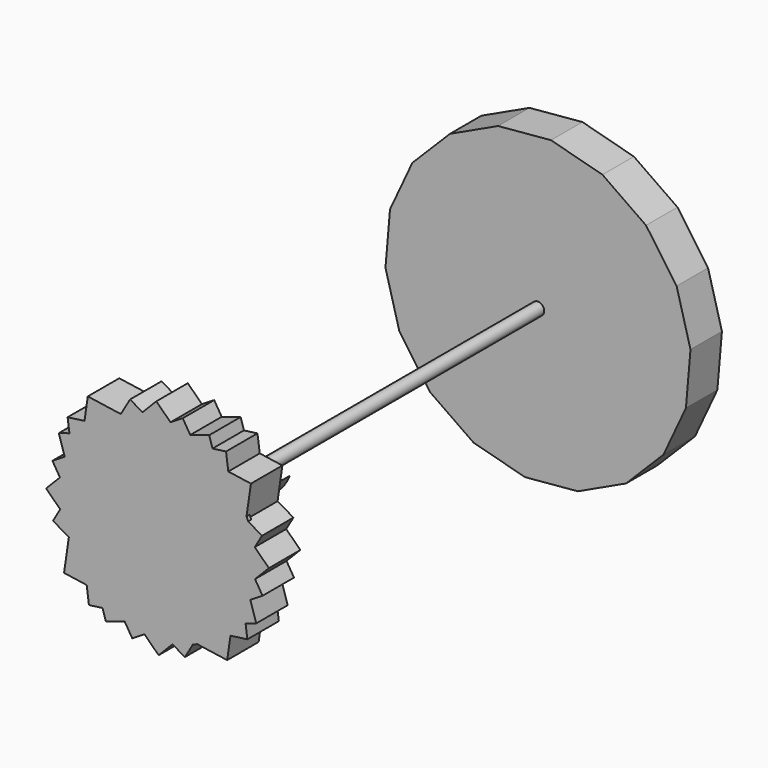
from build123d import *

# Parameters (mm, degrees)
F1_DEPTH  = 25.4
F2_R      = 62.2890098636
F3_DEPTH  = 2.54
F5_DEPTH  = 50.8
F6_R      = 4.0438859763
F7_DEPTH  = 254
F9_DEPTH  = 25.4
F11_DEPTH = 7.62
F13_DEPTH = 50.8


with BuildPart() as f1:
    # F0 (on Front) → F1 (new body)
    with BuildSketch(Plane.XZ):
        with BuildLine():
            ThreePointArc((57.7819383594, 0.1851565995), (57.7821608524, 0.0925784186), (57.7822350168, 0))
            ThreePointArc((57.7822350168, 0), (57.5231925226, -5.4652543892), (56.7483876576, -10.8815064119))
            Line((56.7483876576, -10.8815064119), (57.6832427998, -13.8688362132))
            Line((57.6832427998, -13.8688362132), (63.0399816594, -8.4016064989))
            Line((63.0399816594, -8.4016064989), (57.7819383594, 0.1851565995))
        make_face()
        with BuildLine():
            ThreePointArc((57.773677284, 0.9944328126), (57.7792247151, 0.5898091697), (57.7819383594, 0.1851565995))
            Line((57.7819383594, 0.1851565995), (63.0399816594, -8.4016064989))
            Line((63.0399816594, -8.4016064989), (71.991833844, 0.7348911993))
            Line((71.991833844, 0.7348911993), (62.8553361458, 9.6867433838))
            Line((62.8553361458, 9.6867433838), (57.773677284, 0.9944328126))
        make_face()
        with BuildLine():
            ThreePointArc((55.9340761988, 14.4970963756), (57.2533298713, 7.8001860353), (57.773677284, 0.9944328126))
            Line((57.773677284, 0.9944328126), (62.8553361458, 9.6867433838))
            Line((62.8553361458, 9.6867433838), (56.1851989417, 16.2220793817))
            Line((56.1851989417, 16.2220793817), (55.9340761988, 14.4970963756))
        make_face()
        Polygon((67.8905894931, -16.3229981602), (63.0399816594, -8.4016064989), (57.6832427998, -13.8688362132), (59.9691978318, -21.1736059939), align=None)
        with BuildLine():
            Line((57.6832427998, -13.8688362132), (55.4925720308, -16.1046928857))
            ThreePointArc((55.4925720308, -16.1046928857), (55.0846167775, -17.4491168261), (54.644095292, -18.7832247831))
            Line((54.644095292, -18.7832247831), (55.3472414238, -24.0038281214))
            Line((55.3472414238, -24.0038281214), (59.9691978318, -21.1736059939))
            Line((59.9691978318, -21.1736059939), (57.6832427998, -13.8688362132))
        make_face()
        Polygon((56.1851989417, 16.2220793817), (62.8553361458, 9.6867433838), (67.5432272255, 17.7055038512), (57.2750609654, 23.7084322604), align=None)
        Polygon((63.7893451423, -33.3808875197), (59.9691978318, -21.1736059939), (55.3472414238, -24.0038281214), (56.9005616546, -35.5366637798), align=None)
        with BuildLine():
            ThreePointArc((50.832156187, 27.4750537927), (53.2390137787, 22.4587198078), (55.152249759, 17.2341530125))
            Line((55.152249759, 17.2341530125), (56.1851989417, 16.2220793817))
            Line((56.1851989417, 16.2220793817), (57.2750609654, 23.7084322604))
            Line((57.2750609654, 23.7084322604), (50.832156187, 27.4750537927))
        make_face()
        with BuildLine():
            Line((55.3472414238, -24.0038281214), (51.3824347334, -26.431649294))
            ThreePointArc((51.3824347334, -26.431649294), (50.459573345, -28.1534747654), (49.4790348067, -29.8431197788))
            Line((49.4790348067, -29.8431197788), (48.2563590876, -38.2417809771))
            Line((48.2563590876, -38.2417809771), (56.9005616546, -35.5366637798))
            Line((56.9005616546, -35.5366637798), (55.3472414238, -24.0038281214))
        make_face()
        with BuildLine():
            ThreePointArc((47.7273210625, 32.5712988339), (49.3455729251, 30.0632851869), (50.832156187, 27.4750537927))
            Line((50.832156187, 27.4750537927), (57.2750609654, 23.7084322604))
            Line((57.2750609654, 23.7084322604), (60.3795672043, 45.0335438011))
            Line((60.3795672043, 45.0335438011), (45.7622092891, 47.1615363679))
            Line((45.7622092891, 47.1615363679), (47.7273210625, 32.5712988339))
        make_face()
        Polygon((58.0797452027, -44.2916711518), (56.9005616546, -35.5366637798), (48.2563590876, -38.2417809771), (47.1615363679, -45.7622092891), align=None)
        with BuildLine():
            ThreePointArc((40.4218450044, 41.2899640345), (44.2896449556, 37.1108344455), (47.7273210625, 32.5712988339))
            Line((47.7273210625, 32.5712988339), (45.7622092891, 47.1615363679))
            Line((45.7622092891, 47.1615363679), (38.2417809771, 48.2563590876))
            Line((38.2417809771, 48.2563590876), (40.4218450044, 41.2899640345))
        make_face()
        with BuildLine():
            Line((48.2563590876, -38.2417809771), (41.2899640345, -40.4218450044))
            ThreePointArc((41.2899640345, -40.4218450044), (37.1108344455, -44.2896449556), (32.5712988339, -47.7273210625))
            Line((32.5712988339, -47.7273210625), (47.1615363679, -45.7622092891))
            Line((47.1615363679, -45.7622092891), (48.2563590876, -38.2417809771))
        make_face()
        Polygon((38.2417809771, 48.2563590876), (45.7622092891, 47.1615363679), (44.2916711518, 58.0797452027), (35.5366637798, 56.9005616546), align=None)
        with BuildLine():
            Line((47.1615363679, -45.7622092891), (32.5712988339, -47.7273210625))
            ThreePointArc((32.5712988339, -47.7273210625), (30.0632851869, -49.3455729251), (27.4750537927, -50.832156187))
            Line((27.4750537927, -50.832156187), (23.7084322604, -57.2750609654))
            Line((23.7084322604, -57.2750609654), (45.0335438011, -60.3795672043))
            Line((45.0335438011, -60.3795672043), (47.1615363679, -45.7622092891))
        make_face()
        with BuildLine():
            ThreePointArc((26.431649294, 51.3824347334), (28.1534747654, 50.459573345), (29.8431197788, 49.4790348067))
            Line((29.8431197788, 49.4790348067), (38.2417809771, 48.2563590876))
            Line((38.2417809771, 48.2563590876), (35.5366637798, 56.9005616546))
            Line((35.5366637798, 56.9005616546), (24.0038281214, 55.3472414238))
            Line((24.0038281214, 55.3472414238), (26.431649294, 51.3824347334))
        make_face()
        with BuildLine():
            Line((23.7084322604, -57.2750609654), (27.4750537927, -50.832156187))
            ThreePointArc((27.4750537927, -50.832156187), (22.4587198078, -53.2390137787), (17.2341530125, -55.152249759))
            Line((17.2341530125, -55.152249759), (16.2220793817, -56.1851989417))
            Line((16.2220793817, -56.1851989417), (23.7084322604, -57.2750609654))
        make_face()
        Polygon((24.0038281214, 55.3472414238), (35.5366637798, 56.9005616546), (33.3808875197, 63.7893451423), (21.1736059939, 59.9691978318), align=None)
        with BuildLine():
            ThreePointArc((16.1046928857, 55.4925720308), (17.4491168261, 55.0846167775), (18.7832247831, 54.644095292))
            Line((18.7832247831, 54.644095292), (24.0038281214, 55.3472414238))
            Line((24.0038281214, 55.3472414238), (21.1736059939, 59.9691978318))
            Line((21.1736059939, 59.9691978318), (13.8688362132, 57.6832427998))
            Line((13.8688362132, 57.6832427998), (16.1046928857, 55.4925720308))
        make_face()
        Polygon((17.7055038512, -67.5432272255), (23.7084322604, -57.2750609654), (16.2220793817, -56.1851989417), (9.6867433838, -62.8553361458), align=None)
        with BuildLine():
            Line((16.2220793817, -56.1851989417), (14.4970963756, -55.9340761988))
            ThreePointArc((14.4970963756, -55.9340761988), (7.8001860353, -57.2533298713), (0.9944328126, -57.773677284))
            Line((0.9944328126, -57.773677284), (9.6867433838, -62.8553361458))
            Line((9.6867433838, -62.8553361458), (16.2220793817, -56.1851989417))
        make_face()
        with BuildLine():
            ThreePointArc((-0.1851565995, 57.7819383594), (5.3730839925, 57.531875095), (10.8815064119, 56.7483876576))
            Line((10.8815064119, 56.7483876576), (13.8688362132, 57.6832427998))
            Line((13.8688362132, 57.6832427998), (8.4016064989, 63.0399816594))
            Line((8.4016064989, 63.0399816594), (-0.1851565995, 57.7819383594))
        make_face()
        Polygon((13.8688362132, 57.6832427998), (21.1736059939, 59.9691978318), (16.3229981602, 67.8905894931), (8.4016064989, 63.0399816594), align=None)
        with BuildLine():
            Line((9.6867433838, -62.8553361458), (0.9944328126, -57.773677284))
            ThreePointArc((0.9944328126, -57.773677284), (0.5898091697, -57.7792247151), (0.1851565995, -57.7819383594))
            Line((0.1851565995, -57.7819383594), (-8.4016064989, -63.0399816594))
            Line((-8.4016064989, -63.0399816594), (0.7348911993, -71.991833844))
            Line((0.7348911993, -71.991833844), (9.6867433838, -62.8553361458))
        make_face()
        with BuildLine():
            Line((-8.4016064989, -63.0399816594), (0.1851565995, -57.7819383594))
            ThreePointArc((0.1851565995, -57.7819383594), (-5.3730839925, -57.531875095), (-10.8815064119, -56.7483876576))
            Line((-10.8815064119, -56.7483876576), (-13.8688362132, -57.6832427998))
            Line((-13.8688362132, -57.6832427998), (-8.4016064989, -63.0399816594))
        make_face()
        with BuildLine():
            Line((-9.6867433838, 62.8553361458), (-0.9944328126, 57.773677284))
            ThreePointArc((-0.9944328126, 57.773677284), (-0.5898091697, 57.7792247151), (-0.1851565995, 57.7819383594))
            Line((-0.1851565995, 57.7819383594), (8.4016064989, 63.0399816594))
            Line((8.4016064989, 63.0399816594), (-0.7348911993, 71.991833844))
            Line((-0.7348911993, 71.991833844), (-9.6867433838, 62.8553361458))
        make_face()
        with BuildLine():
            ThreePointArc((-14.4970963756, 55.9340761988), (-7.8001860353, 57.2533298713), (-0.9944328126, 57.773677284))
            Line((-0.9944328126, 57.773677284), (-9.6867433838, 62.8553361458))
            Line((-9.6867433838, 62.8553361458), (-16.2220793817, 56.1851989417))
            Line((-16.2220793817, 56.1851989417), (-14.4970963756, 55.9340761988))
        make_face()
        Polygon((-16.3229981602, -67.8905894931), (-8.4016064989, -63.0399816594), (-13.8688362132, -57.6832427998), (-21.1736059939, -59.9691978318), align=None)
        with BuildLine():
            Line((-13.8688362132, -57.6832427998), (-16.1046928857, -55.4925720308))
            ThreePointArc((-16.1046928857, -55.4925720308), (-17.4491168261, -55.0846167775), (-18.7832247831, -54.644095292))
            Line((-18.7832247831, -54.644095292), (-24.0038281214, -55.3472414238))
            Line((-24.0038281214, -55.3472414238), (-21.1736059939, -59.9691978318))
            Line((-21.1736059939, -59.9691978318), (-13.8688362132, -57.6832427998))
        make_face()
        Polygon((-16.2220793817, 56.1851989417), (-9.6867433838, 62.8553361458), (-17.7055038512, 67.5432272255), (-23.7084322604, 57.2750609654), align=None)
        with BuildLine():
            ThreePointArc((-27.4750537927, 50.832156187), (-22.4587198078, 53.2390137787), (-17.2341530125, 55.152249759))
            Line((-17.2341530125, 55.152249759), (-16.2220793817, 56.1851989417))
            Line((-16.2220793817, 56.1851989417), (-23.7084322604, 57.2750609654))
            Line((-23.7084322604, 57.2750609654), (-27.4750537927, 50.832156187))
        make_face()
        Polygon((-33.3808875197, -63.7893451423), (-21.1736059939, -59.9691978318), (-24.0038281214, -55.3472414238), (-35.5366637798, -56.9005616546), align=None)
        with BuildLine():
            Line((-38.2417809771, -48.2563590876), (-40.4218450044, -41.2899640345))
            ThreePointArc((-40.4218450044, -41.2899640345), (-44.2896449556, -37.1108344455), (-47.7273210625, -32.5712988339))
            Line((-47.7273210625, -32.5712988339), (-45.7622092891, -47.1615363679))
            Line((-45.7622092891, -47.1615363679), (-38.2417809771, -48.2563590876))
        make_face()
        with BuildLine():
            Line((-24.0038281214, -55.3472414238), (-26.431649294, -51.3824347334))
            ThreePointArc((-26.431649294, -51.3824347334), (-28.1534747654, -50.459573345), (-29.8431197788, -49.4790348067))
            Line((-29.8431197788, -49.4790348067), (-38.2417809771, -48.2563590876))
            Line((-38.2417809771, -48.2563590876), (-35.5366637798, -56.9005616546))
            Line((-35.5366637798, -56.9005616546), (-24.0038281214, -55.3472414238))
        make_face()
        with BuildLine():
            ThreePointArc((-32.5712988339, 47.7273210625), (-30.0632851869, 49.3455729251), (-27.4750537927, 50.832156187))
            Line((-27.4750537927, 50.832156187), (-23.7084322604, 57.2750609654))
            Line((-23.7084322604, 57.2750609654), (-45.0335438011, 60.3795672043))
            Line((-45.0335438011, 60.3795672043), (-47.1615363679, 45.7622092891))
            Line((-47.1615363679, 45.7622092891), (-32.5712988339, 47.7273210625))
        make_face()
        with BuildLine():
            Line((-48.2563590876, 38.2417809771), (-41.2899640345, 40.4218450044))
            ThreePointArc((-41.2899640345, 40.4218450044), (-37.1108344455, 44.2896449556), (-32.5712988339, 47.7273210625))
            Line((-32.5712988339, 47.7273210625), (-47.1615363679, 45.7622092891))
            Line((-47.1615363679, 45.7622092891), (-48.2563590876, 38.2417809771))
        make_face()
        with BuildLine():
            Line((-55.3472414238, 24.0038281214), (-51.3824347334, 26.431649294))
            ThreePointArc((-51.3824347334, 26.431649294), (-50.459573345, 28.1534747654), (-49.4790348067, 29.8431197788))
            Line((-49.4790348067, 29.8431197788), (-48.2563590876, 38.2417809771))
            Line((-48.2563590876, 38.2417809771), (-56.9005616546, 35.5366637798))
            Line((-56.9005616546, 35.5366637798), (-55.3472414238, 24.0038281214))
        make_face()
        with BuildLine():
            Line((-57.2750609654, -23.7084322604), (-50.832156187, -27.4750537927))
            ThreePointArc((-50.832156187, -27.4750537927), (-53.2390137787, -22.4587198078), (-55.152249759, -17.2341530125))
            Line((-55.152249759, -17.2341530125), (-56.1851989417, -16.2220793817))
            Line((-56.1851989417, -16.2220793817), (-57.2750609654, -23.7084322604))
        make_face()
        with BuildLine():
            ThreePointArc((-47.7273210625, -32.5712988339), (-49.3455729251, -30.0632851869), (-50.832156187, -27.4750537927))
            Line((-50.832156187, -27.4750537927), (-57.2750609654, -23.7084322604))
            Line((-57.2750609654, -23.7084322604), (-60.3795672043, -45.0335438011))
            Line((-60.3795672043, -45.0335438011), (-45.7622092891, -47.1615363679))
            Line((-45.7622092891, -47.1615363679), (-47.7273210625, -32.5712988339))
        make_face()
        Polygon((-35.5366637798, -56.9005616546), (-38.2417809771, -48.2563590876), (-45.7622092891, -47.1615363679), (-44.2916711518, -58.0797452027), align=None)
        Polygon((-56.9005616546, 35.5366637798), (-48.2563590876, 38.2417809771), (-47.1615363679, 45.7622092891), (-58.0797452027, 44.2916711518), align=None)
        with BuildLine():
            ThreePointArc((-55.4925720308, 16.1046928857), (-55.0846167775, 17.4491168261), (-54.644095292, 18.7832247831))
            Line((-54.644095292, 18.7832247831), (-55.3472414238, 24.0038281214))
            Line((-55.3472414238, 24.0038281214), (-59.9691978318, 21.1736059939))
            Line((-59.9691978318, 21.1736059939), (-57.6832427998, 13.8688362132))
            Line((-57.6832427998, 13.8688362132), (-55.4925720308, 16.1046928857))
        make_face()
        Polygon((-59.9691978318, 21.1736059939), (-55.3472414238, 24.0038281214), (-56.9005616546, 35.5366637798), (-63.7893451423, 33.3808875197), align=None)
        Polygon((-67.5432272255, -17.7055038512), (-57.2750609654, -23.7084322604), (-56.1851989417, -16.2220793817), (-62.8553361458, -9.6867433838), align=None)
        with BuildLine():
            Line((-56.1851989417, -16.2220793817), (-55.9340761988, -14.4970963756))
            ThreePointArc((-55.9340761988, -14.4970963756), (-57.2533298713, -7.8001860353), (-57.773677284, -0.9944328126))
            Line((-57.773677284, -0.9944328126), (-62.8553361458, -9.6867433838))
            Line((-62.8553361458, -9.6867433838), (-56.1851989417, -16.2220793817))
        make_face()
        with BuildLine():
            ThreePointArc((-57.7819383594, -0.1851565995), (-57.531875095, 5.3730839925), (-56.7483876576, 10.8815064119))
            Line((-56.7483876576, 10.8815064119), (-57.6832427998, 13.8688362132))
            Line((-57.6832427998, 13.8688362132), (-63.0399816594, 8.4016064989))
            Line((-63.0399816594, 8.4016064989), (-57.7819383594, -0.1851565995))
        make_face()
        Polygon((-57.6832427998, 13.8688362132), (-59.9691978318, 21.1736059939), (-67.8905894931, 16.3229981602), (-63.0399816594, 8.4016064989), align=None)
        with BuildLine():
            Line((-62.8553361458, -9.6867433838), (-57.773677284, -0.9944328126))
            ThreePointArc((-57.773677284, -0.9944328126), (-57.7792247151, -0.5898091697), (-57.7819383594, -0.1851565995))
            Line((-57.7819383594, -0.1851565995), (-63.0399816594, 8.4016064989))
            Line((-63.0399816594, 8.4016064989), (-71.991833844, -0.7348911993))
            Line((-71.991833844, -0.7348911993), (-62.8553361458, -9.6867433838))
        make_face()
    extrude(amount=F1_DEPTH)

    # F2 (on face) → F3 (join)
    with BuildSketch(Plane.XZ.offset(25.4)):
        with Locations((0.8466676227, -0.4233333166)):
            Circle(F2_R)
    extrude(amount=-F3_DEPTH)

    # F4 (on face) → F5 (join)
    with BuildSketch(Plane(origin=(0, -22.86, 0), x_dir=(-1, 0, 0), z_dir=(0, 1, 0))):
        with BuildLine():
            ThreePointArc((11.0955566128, -3.9827895585), (11.4842541113, -2.2218931907), (11.6147307109, -0.4233333166))
            ThreePointArc((11.6147307109, -0.4233333166), (10.2517115717, 5.2434495173), (6.4608263373, 9.6705747697))
            ThreePointArc((6.4608263373, 9.6705747697), (4.3169447713, 10.9178992211), (1.9684942706, 11.7159134452))
            ThreePointArc((1.9684942706, 11.7159134452), (-2.5318317939, 11.9235962671), (-6.8119055118, 10.5175252126))
            ThreePointArc((-6.8119055118, 10.5175252126), (-10.6960069352, 7.2106016802), (-12.9296141701, 2.6244283477))
            ThreePointArc((-12.9296141701, 2.6244283477), (-13.0011752578, -3.1718588442), (-10.4426512718, -8.3733991173))
            ThreePointArc((-10.4426512718, -8.3733991173), (-1.2588434566, -12.8779131775), (8.2026909941, -8.9904540146))
            ThreePointArc((8.2026909941, -8.9904540146), (9.9436434705, -6.6567621437), (11.0955566128, -3.9827895585))
        make_face()
        with BuildLine():
            ThreePointArc((1.9684942706, 11.7159134452), (4.3169447713, 10.9178992211), (6.4608263373, 9.6705747697))
            ThreePointArc((6.4608263373, 9.6705747697), (6.5915593779, 22.2952859202), (11.6416662931, 33.8666662574))
            ThreePointArc((11.6416662931, 33.8666662574), (3.3359957949, 24.306229379), (1.9684942706, 11.7159134452))
        make_face()
        with BuildLine():
            ThreePointArc((23.2833325863, -35.1366661489), (23.3796647668, -17.138038328), (11.0955566128, -3.9827895585))
            ThreePointArc((11.0955566128, -3.9827895585), (9.9436434705, -6.6567621437), (8.2026909941, -8.9904540146))
            ThreePointArc((8.2026909941, -8.9904540146), (19.8394078182, -19.7008361812), (23.2833325863, -35.1366661489))
        make_face()
        with BuildLine():
            ThreePointArc((-12.9296141701, 2.6244283477), (-10.6960069352, 7.2106016802), (-6.8119055118, 10.5175252126))
            ThreePointArc((-6.8119055118, 10.5175252126), (-26.2266431852, 12.2436503696), (-42.9683327675, 22.2250018269))
            ThreePointArc((-42.9683327675, 22.2250018269), (-31.0165562418, 7.7235130643), (-12.9296141701, 2.6244283477))
        make_face()
    extrude(amount=F5_DEPTH)

    # F6 (on face) → F7 (join)
    with BuildSketch(Plane(origin=(0, 27.94, 0), x_dir=(-1, 0, 0), z_dir=(0, 1, 0))):
        Circle(F6_R)
    extrude(amount=F7_DEPTH)

    # F8 (on face) → F9 (join)
    with BuildSketch(Plane(origin=(0, 281.94, 0), x_dir=(-1, 0, 0), z_dir=(0, 1, 0))):
        Polygon((-8.4311632496, 98.5818310946), (-41.6396738905, 89.7529915601), (-69.8258253242, 70.0986166304), (-89.5899517043, 41.9893139897), (-98.548207702, 8.8154803856), (-95.6200954342, -25.4216302557), (-81.1587884547, -56.5925171049), (-56.9085338115, -80.9375111746), (-25.79427011, -95.5202468862), (8.4311632496, -98.5818310946), (41.6396738905, -89.7529915601), (69.8258253242, -70.0986166304), (89.5899517043, -41.9893139897), (98.548207702, -8.8154803856), (95.6200954342, 25.4216302557), (81.1587884547, 56.5925171049), (56.9085338115, 80.9375111746), (25.79427011, 95.5202468862), align=None)
    extrude(amount=F9_DEPTH)

    # F10 (on face) → F11 (join)
    with BuildSketch(Plane(origin=(0, 307.34, 0), x_dir=(-1, 0, 0), z_dir=(0, 1, 0))):
        Polygon((-78.7355745773, -1.5639497005), (-59.309661891, -51.8083067573), (-12.1320992525, -77.810981297), (40.7222074596, -67.4050329152), (74.5221407244, -25.4595205089), (73.4523361229, 28.3987844946), (38.0133671177, 68.9689826158), (-15.2124788333, 77.2678272661), (-61.3202368704, 49.4121968024), align=None)
        Polygon((43.2919879828, -46.6068121751), (-30.9477524159, -55.5754242901), (-62.4187508512, 12.2593110246), (-7.6291571455, 63.152095182), (57.7036724298, 26.7708302586), align=None, mode=Mode.SUBTRACT)
    extrude(amount=F11_DEPTH)

    # F12 (on face) → F13 (join)
    with BuildSketch(Plane(origin=(0, 307.34, 0), x_dir=(-1, 0, 0), z_dir=(0, 1, 0))):
        Polygon((-32.7432258656, -9.4759118988), (-30.3581850001, -15.5013660656), (-26.8759202312, -20.9665604744), (-22.4222896807, -25.6739687598), (-17.1582591603, -29.4534529213), (-11.2740844485, -32.1684125541), (-4.9824349504, -33.7207219431), (1.4892927284, -34.0542765827), (7.9071934877, -33.157020939), (14.0393076724, -31.0613841688), (19.6640046987, -27.8431080451), (24.5779933612, -23.6185094521), (28.6036693062, -18.5402763901), (31.5955341164, -12.7919494332), (33.4454540023, -6.5812880946), (34.0865680392, -0.1327618569), (33.4957046955, 6.3205627402), (31.6942193119, 12.5454457318), (28.7472222639, 18.3169036278), (24.7612257031, 23.4263409025), (19.8802939307, 27.6890891802), (14.280836538, 30.9510816318), (8.1652325045, 33.0944213509), (1.7545156939, 34.0416424557), (-4.7196138852, 33.7585099075), (-11.0231643216, 32.2552568544), (-16.9283088789, 29.5862147782), (-22.221620247, 25.8478498139), (-26.7117843615, 21.1752762113), (-30.2365149923, 15.7373729549), (-32.6684191909, 9.7306800365), (-33.9196016031, 3.3722949886), (-33.9448412367, -3.1079735867), align=None)
    extrude(amount=F13_DEPTH)


solid = f1.part
